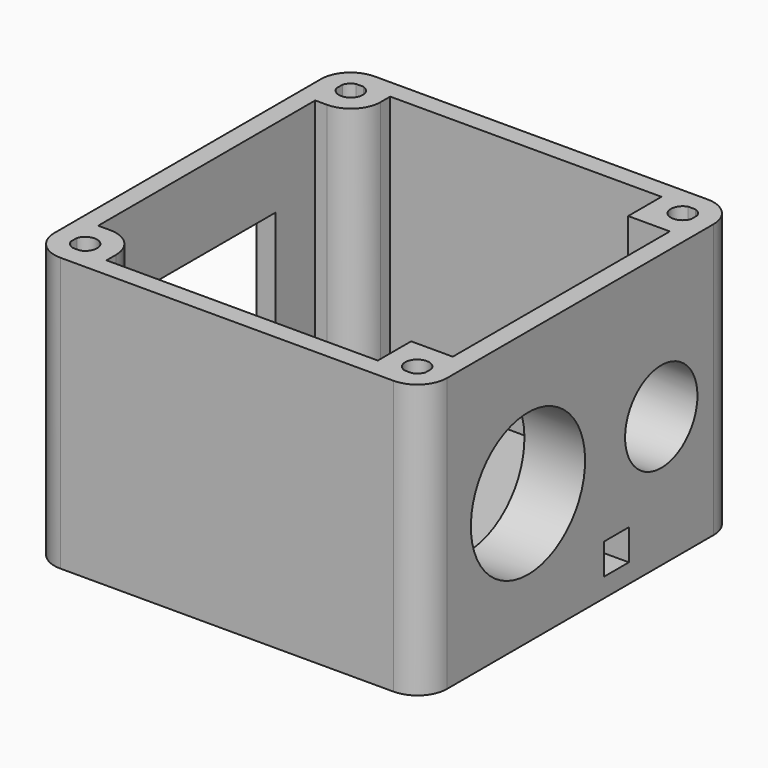
from build123d import *

# Parameters (mm, degrees)
BOX008_W                = 10
BOX008_H                = 2.6
BOX008_DEPTH            = 2.6
CYLINDER004_R           = 6
CYLINDER004_DEPTH       = 10
CYLINDER004_PITCH_ANGLE = 90
CYLINDER005_R           = 3.8
CYLINDER005_DEPTH       = 10
CYLINDER005_PITCH_ANGLE = 90
BOX006_W                = 10
BOX006_H                = 14.5
BOX006_DEPTH            = 8.9
BOX007_W                = 5.1
BOX007_H                = 22.8
BOX007_DEPTH            = 18
CYLINDER001_R           = 1
CYLINDER001_DEPTH       = 8
BOX003_W                = 5.1
BOX003_H                = 5.1
BOX003_DEPTH            = 23
CYLINDER003_R           = 1
CYLINDER003_DEPTH       = 8
BOX005_W                = 5.1
BOX005_H                = 5.1
BOX005_DEPTH            = 23
CYLINDER002_R           = 1
CYLINDER002_DEPTH       = 8
BOX004_W                = 5.1
BOX004_H                = 5.1
BOX004_DEPTH            = 23
CYLINDER_R              = 1
CYLINDER_DEPTH          = 8
BOX002_W                = 5.1
BOX002_H                = 5.1
BOX002_DEPTH            = 23
BOX001_W                = 29.8
BOX001_H                = 29.8
BOX001_DEPTH            = 23
BOX_W                   = 33
BOX_H                   = 33
BOX_DEPTH               = 23
FILLET_R                = 2.5


with BuildPart() as obj1:
    # Box008 → Box008 (new body)
    with BuildSketch(Plane(origin=(51, 19, 1.6), x_dir=(1, 0, 0), z_dir=(0, 0, 1))):
        with Locations((5, 1.3)):
            Rectangle(BOX008_W, BOX008_H)
    extrude(amount=BOX008_DEPTH)


with BuildPart() as aviator:
    # Cylinder004 → Cylinder004 (new body)
    with BuildSketch(Plane.XY):
        Circle(CYLINDER004_R)
    extrude(amount=CYLINDER004_DEPTH)


with BuildPart() as aviator_1:
    # Cylinder004 pitch: moved
    add(aviator.part.rotate(Axis((0, 0, 0), (0, 1, 0)), CYLINDER004_PITCH_ANGLE))


with BuildPart() as aviator_2:
    # Cylinder004 placement: moved
    add(aviator_1.part.moved(Location((50, 11, 11))))


with BuildPart() as obj2:
    # Cylinder005 → Cylinder005 (new body)
    with BuildSketch(Plane.XY):
        Circle(CYLINDER005_R)
    extrude(amount=CYLINDER005_DEPTH)


with BuildPart() as obj2_1:
    # Cylinder005 pitch: moved
    add(obj2.part.rotate(Axis((0, 0, 0), (0, 1, 0)), CYLINDER005_PITCH_ANGLE))


with BuildPart() as obj2_2:
    # Cylinder005 placement: moved
    add(obj2_1.part.moved(Location((50, 25, 11))))


with BuildPart() as obj3:
    # Box006 → Box006 (new body)
    with BuildSketch(Plane(origin=(22.5, 9.25, 7.5), x_dir=(1, 0, 0), z_dir=(0, 0, 1))):
        with Locations((5, 7.25)):
            Rectangle(BOX006_W, BOX006_H)
    extrude(amount=BOX006_DEPTH)

    # Fusion003: union Aviator, obj2
    add(aviator_2.part)
    add(obj2_2.part)


with BuildPart() as obj4:
    # Box007 → Box007 (new body)
    with BuildSketch(Plane(origin=(53.4, 5.1, 0), x_dir=(1, 0, 0), z_dir=(0, 0, 1))):
        with Locations((2.55, 11.4)):
            Rectangle(BOX007_W, BOX007_H)
    extrude(amount=BOX007_DEPTH)


with BuildPart() as obj5:
    # Cylinder001 → Cylinder001 (new body)
    with BuildSketch(Plane(origin=(2.55, 2.55, 15), x_dir=(1, 0, 0), z_dir=(0, 0, 1))):
        Circle(CYLINDER001_R)
    extrude(amount=CYLINDER001_DEPTH)


with BuildPart() as obj6:
    # Box003 → Box003 (new body)
    with BuildSketch(Plane.XY):
        with Locations((2.55, 2.55)):
            Rectangle(BOX003_W, BOX003_H)
    extrude(amount=BOX003_DEPTH)

    # Cut002: cut obj5
    add(obj5.part, mode=Mode.SUBTRACT)


with BuildPart() as obj6_1:
    # Cut002 placement: moved
    add(obj6.part.moved(Location((53.4, 0, 0))))


with BuildPart() as obj7:
    # Cylinder003 → Cylinder003 (new body)
    with BuildSketch(Plane(origin=(2.55, 2.55, 15), x_dir=(1, 0, 0), z_dir=(0, 0, 1))):
        Circle(CYLINDER003_R)
    extrude(amount=CYLINDER003_DEPTH)


with BuildPart() as obj8:
    # Box005 → Box005 (new body)
    with BuildSketch(Plane.XY):
        with Locations((2.55, 2.55)):
            Rectangle(BOX005_W, BOX005_H)
    extrude(amount=BOX005_DEPTH)

    # Cut004: cut obj7
    add(obj7.part, mode=Mode.SUBTRACT)


with BuildPart() as obj8_1:
    # Cut004 placement: moved
    add(obj8.part.moved(Location((53.4, 27.9, 0))))


with BuildPart() as obj9:
    # Cylinder002 → Cylinder002 (new body)
    with BuildSketch(Plane(origin=(2.55, 2.55, 15), x_dir=(1, 0, 0), z_dir=(0, 0, 1))):
        Circle(CYLINDER002_R)
    extrude(amount=CYLINDER002_DEPTH)


with BuildPart() as obj10:
    # Box004 → Box004 (new body)
    with BuildSketch(Plane.XY):
        with Locations((2.55, 2.55)):
            Rectangle(BOX004_W, BOX004_H)
    extrude(amount=BOX004_DEPTH)

    # Cut003: cut obj9
    add(obj9.part, mode=Mode.SUBTRACT)


with BuildPart() as obj10_1:
    # Cut003 placement: moved
    add(obj10.part.moved(Location((25.5, 27.9, 0))))


with BuildPart() as obj11:
    # Cylinder → Cylinder (new body)
    with BuildSketch(Plane(origin=(2.55, 2.55, 15), x_dir=(1, 0, 0), z_dir=(0, 0, 1))):
        Circle(CYLINDER_R)
    extrude(amount=CYLINDER_DEPTH)


with BuildPart() as obj12:
    # Box002 → Box002 (new body)
    with BuildSketch(Plane.XY):
        with Locations((2.55, 2.55)):
            Rectangle(BOX002_W, BOX002_H)
    extrude(amount=BOX002_DEPTH)

    # Cut001: cut obj11
    add(obj11.part, mode=Mode.SUBTRACT)


with BuildPart() as obj12_1:
    # Cut001 placement: moved
    add(obj12.part.moved(Location((25.5, 0, 0))))

    # Fusion: union obj6, obj8, obj10
    add(obj6_1.part)
    add(obj8_1.part)
    add(obj10_1.part)


with BuildPart() as innen:
    # Box001 → Box001 (new body)
    with BuildSketch(Plane(origin=(1.6, 1.6, 1.6), x_dir=(1, 0, 0), z_dir=(0, 0, 1))):
        with Locations((14.9, 14.9)):
            Rectangle(BOX001_W, BOX001_H)
    extrude(amount=BOX001_DEPTH)


with BuildPart() as cut006:
    # Box → Box (new body)
    with BuildSketch(Plane.XY):
        with Locations((16.5, 16.5)):
            Rectangle(BOX_W, BOX_H)
    extrude(amount=BOX_DEPTH)

    # Cut: cut Innen
    add(innen.part, mode=Mode.SUBTRACT)


with BuildPart() as cut006_1:
    # Cut placement: moved
    add(cut006.part.moved(Location((25.5, 0, 0))))

    # Fusion001: union obj12
    add(obj12_1.part)

    # Fusion002: union obj4
    add(obj4.part)

    # Fillet
    fillet_edges = [cut006_1.edges().sort_by_distance(p)[0] for p in [
        (25.5, 0, 11.5),
        (25.5, 33, 11.5),
        (58.5, 0, 11.5),
        (30.6, 5.1, 12.3),
        (58.5, 33, 11.5),
        (30.6, 27.9, 12.3),
    ]]
    fillet(fillet_edges, radius=FILLET_R)

    # Cut005: cut obj3
    add(obj3.part, mode=Mode.SUBTRACT)

    # Cut006: cut obj1
    add(obj1.part, mode=Mode.SUBTRACT)


solid = cut006_1.part
